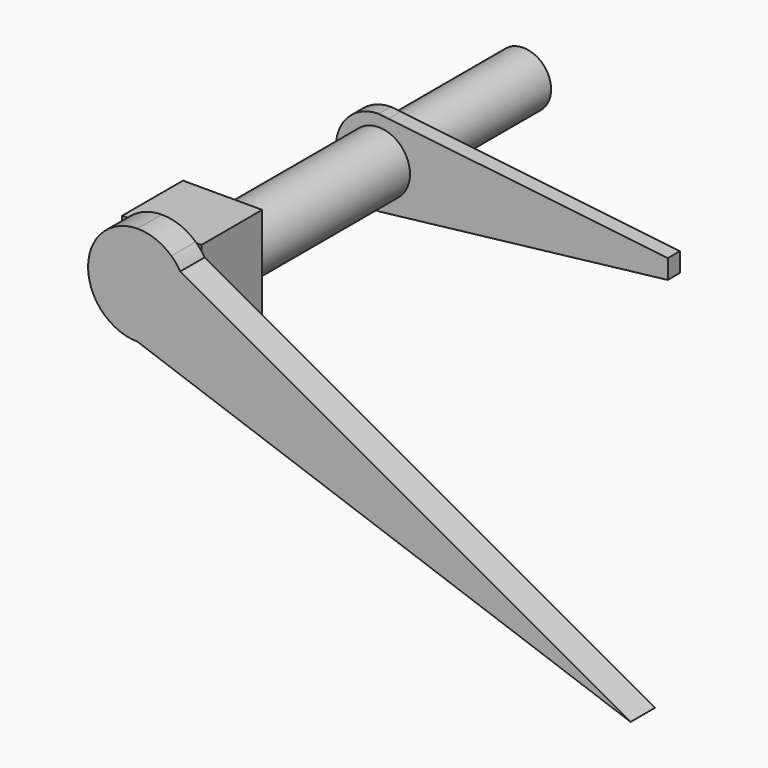
from build123d import *

# Parameters (mm, degrees)
F0_R     = 46.3869587869
F7_DEPTH = 276.5972781926
F8_R     = 46.3869587869
F1_DEPTH = 25.4
F2_R     = 52.1237255929
F3_DEPTH = 325.6295006722
F4_W     = 132.3714181781
F4_H     = 167.2963500023
F5_DEPTH = 127
F9_DEPTH = 50.8


with BuildPart() as f7:
    # F0 (on Front) → F7 (new body)
    with BuildSketch(Plane.XZ):
        Circle(F0_R)
    extrude(amount=F7_DEPTH)

    # F8 (on face) → F1 (join)
    with BuildSketch(Plane.XZ.offset(276.5972781926)):
        with BuildLine():
            Line((482.9649029074, 16.5669820287), (16.2037538756, 69.9342963946))
            ThreePointArc((16.2037538756, 69.9342963946), (56.1986906588, 44.6662581834), (71.7869587869, 0))
            ThreePointArc((71.7869587869, 0), (56.2879281413, -44.5537495328), (16.4834153308, -69.8689091865))
            Line((16.4834153308, -69.8689091865), (482.9649029074, -15.5880084808))
            Line((482.9649029074, -15.5880084808), (482.9649029074, 16.5669820287))
        make_face()
        with BuildLine():
            Line((16.2037538756, 69.9342963946), (0, 71.7869587869))
            ThreePointArc((0, 71.7869587869), (-71.7869587869, 0), (0, -71.7869587869))
            Line((0, -71.7869587869), (16.4834153308, -69.8689091865))
            ThreePointArc((16.4834153308, -69.8689091865), (56.2879281413, -44.5537495328), (71.7869587869, 0))
            ThreePointArc((71.7869587869, 0), (56.1986906588, 44.6662581834), (16.2037538756, 69.9342963946))
        make_face()
        Circle(F8_R, mode=Mode.SUBTRACT)
        Circle(F8_R)
    extrude(amount=F1_DEPTH)

    # F2 (on face) → F3 (join)
    with BuildSketch(Plane.XZ.offset(301.9972781926)):
        Circle(F2_R)
    extrude(amount=F3_DEPTH)

    # F4 (on face) → F5 (join)
    with BuildSketch(Plane.XZ.offset(627.6267788649)):
        with Locations((-0.5969889462, 0.5796924233)):
            Rectangle(F4_W, F4_H)
    extrude(amount=F5_DEPTH)

    # F6 (on face) → F9 (join)
    with BuildSketch(Plane.XZ.offset(754.6267788649)):
        with BuildLine():
            Line((-0.5969889462, 107.3650692829), (55.9769339649, 85.7203485594))
            ThreePointArc((55.9769339649, 85.7203485594), (29.7297504424, 101.8741817091), (-0.5969889462, 107.3650692829))
        make_face()
        with BuildLine():
            ThreePointArc((70.9482696087, 67.6243206263), (64.1043554081, 77.2032748025), (55.9769339649, 85.7203485594))
            Line((55.9769339649, 85.7203485594), (-0.5969889462, 107.3650692829))
            Line((-0.5969889462, 107.3650692829), (70.9482696087, 67.6243206263))
        make_face()
        with BuildLine():
            Line((70.9482696087, 67.6243206263), (-0.5969889462, 107.3650692829))
            ThreePointArc((-0.5969889462, 107.3650692829), (-83.1992115072, 24.1679996252), (-0.5969889462, -59.0290700325))
            ThreePointArc((-0.5969889462, -59.0290700325), (58.6192791913, -34.8734172151), (83.1992115072, 24.1679996252))
            ThreePointArc((83.1992115072, 24.1679996252), (80.0779273104, 46.7430821962), (70.9482696087, 67.6243206263))
        make_face()
        with BuildLine():
            Line((823.5844914503, -350.4373025497), (70.9482696087, 67.6243206263))
            ThreePointArc((70.9482696087, 67.6243206263), (80.0779273104, 46.7430821962), (83.1992115072, 24.1679996252))
            ThreePointArc((83.1992115072, 24.1679996252), (58.6192791913, -34.8734172151), (-0.5969889462, -59.0290700325))
            Line((-0.5969889462, -59.0290700325), (823.5844914503, -350.4373025497))
        make_face()
    extrude(amount=F9_DEPTH)


solid = f7.part
